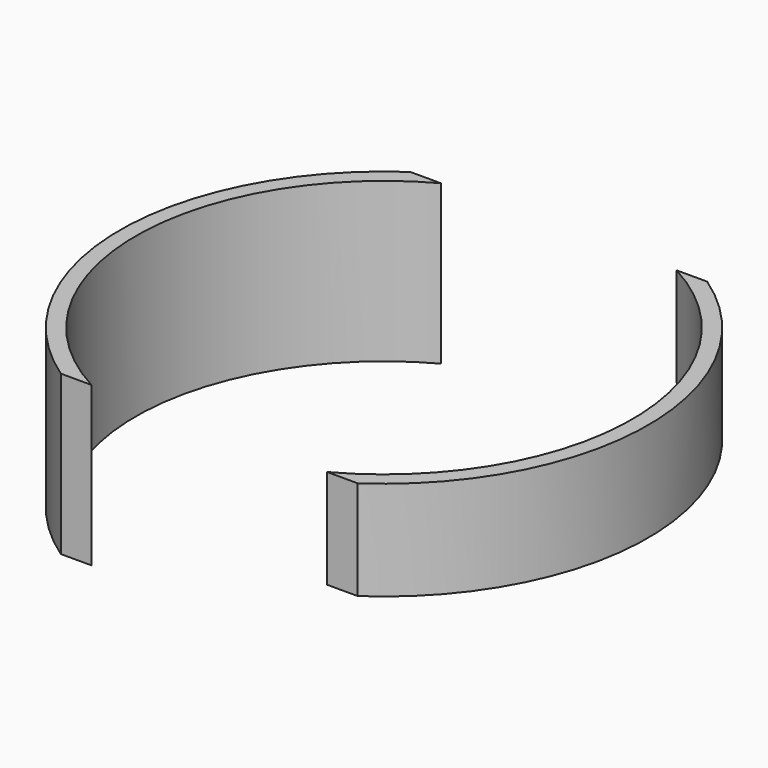
from build123d import *

# Parameters (mm, degrees)
F1_DEPTH = 80
F2_DEPTH = 30


with BuildPart() as f1:
    # F0 (on Top) → F1 (new body)
    with BuildSketch(Plane.XY):
        with BuildLine():
            ThreePointArc((-139.3316096223, -110), (-204.9598991871, 0), (-139.3316096223, 110))
            Line((-139.3316096223, 110), (-154.7195139534, 110))
            ThreePointArc((-154.7195139534, 110), (-212.9598991871, 0), (-154.7195139534, -110))
            Line((-154.7195139534, -110), (-139.3316096223, -110))
        make_face()
    extrude(amount=F1_DEPTH)


with BuildPart() as f1b:
    # F0 (on Top) → F1, piece 2 (new body)
    with BuildSketch(Plane.XY):
        with BuildLine():
            Line((-5.2002844208, 110), (-20.5881887519, 110))
            ThreePointArc((-20.5881887519, 110), (45.0401008129, 0), (-20.5881887519, -110))
            Line((-20.5881887519, -110), (-5.2002844208, -110))
            ThreePointArc((-5.2002844208, -110), (53.0401008129, 0), (-5.2002844208, 110))
        make_face()
    extrude(amount=F1_DEPTH)

    # F2 (cut): a face of the model
    f2_faces = [f1b.faces().sort_by_distance(p)[0] for p in [
        (-12.8942365864, -107.6800619615, 0),
    ]]
    extrude(f2_faces, amount=-F2_DEPTH, mode=Mode.SUBTRACT)


solid = Compound([f1.part, f1b.part])
